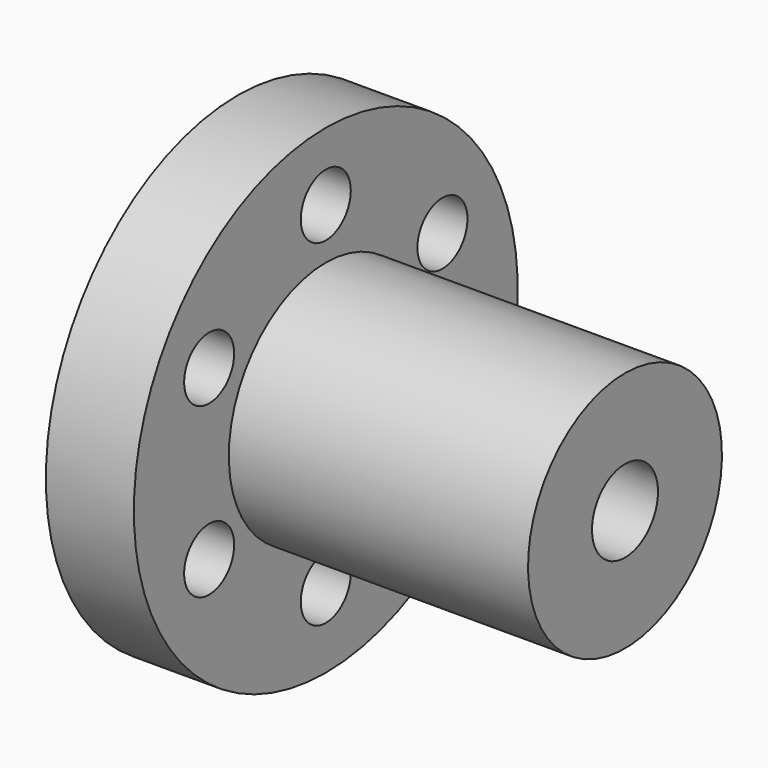
from build123d import *

# Parameters (mm, degrees)
F2_R     = 2.130745
F3_DEPTH = 6.001


with BuildPart() as f1:
    # F0 (on Front) → F1 (revolve)
    with BuildSketch(Plane.XZ):
        Polygon((-5.551115, 16.115252), (-11.551115, 16.115252), (-11.551115, 3.144817), (14.848885, 2.570904), (14.848885, 8.023078), (-5.551115, 8.023078), align=None)
    revolve(axis=Axis((0.128016, 0, -0.24127), (1, 0, 0)))

    # F2 (on face) → F3 (cut, through all)
    with BuildSketch(Plane.YZ.offset(-5.551115)):
        with Locations((-9.941192, 5.73955)):
            Circle(F2_R)
        with Locations((-9.941192, -5.73955)):
            Circle(F2_R)
        with Locations((0, -11.479099)):
            Circle(F2_R)
        with Locations((9.941192, -5.73955)):
            Circle(F2_R)
        with Locations((9.941192, 5.73955)):
            Circle(F2_R)
        with Locations((0, 11.479099)):
            Circle(F2_R)
    extrude(amount=-F3_DEPTH, mode=Mode.SUBTRACT)


solid = f1.part
